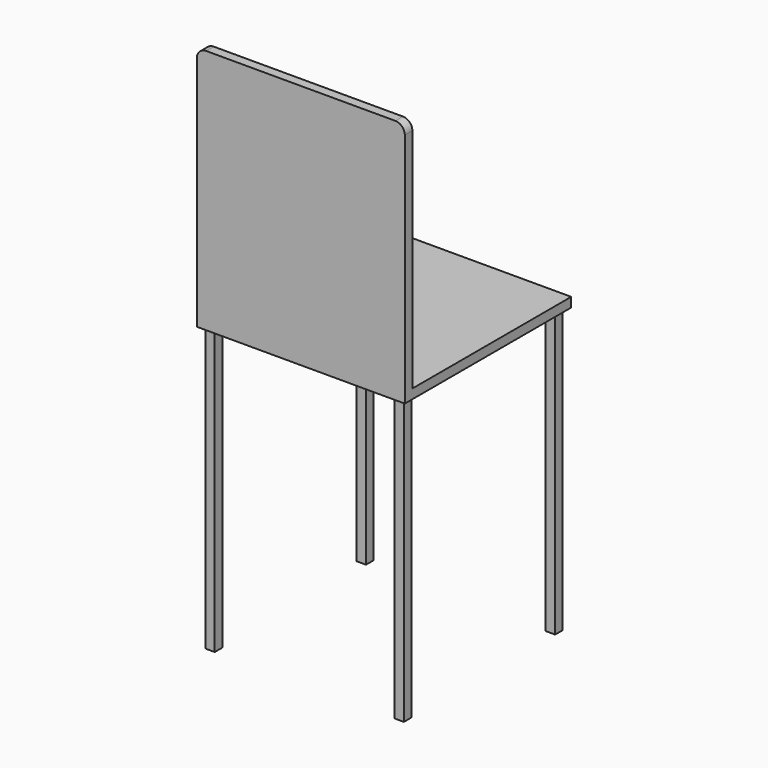
from build123d import *

# Parameters (mm, degrees)
F0_W     = 20
F0_H     = 20
F1_DEPTH = 600
F2_W     = 440
F2_H     = 440
F3_DEPTH = 20
F4_W     = 440
F4_H     = 20
F5_DEPTH = 500
F6_R     = 20


with BuildPart() as f1:
    # F0 (on Top) → F1 (new body)
    with BuildSketch(Plane.XY):
        with Locations((10, 10)):
            Rectangle(F0_W, F0_H)
        with Locations((10, 410)):
            Rectangle(F0_W, F0_H)
        with Locations((410, 10)):
            Rectangle(F0_W, F0_H)
        with Locations((410, 410)):
            Rectangle(F0_W, F0_H)
    extrude(amount=F1_DEPTH)

    # F2 (on face) → F3 (join)
    with BuildSketch(Plane.XY.offset(600)):
        with Locations((210, 210)):
            Rectangle(F2_W, F2_H)
    extrude(amount=F3_DEPTH)

    # F4 (on face) → F5 (join)
    with BuildSketch(Plane.XY.offset(620)):
        with Locations((210, 0)):
            Rectangle(F4_W, F4_H)
    extrude(amount=F5_DEPTH)

    # F6
    f6_edges = [f1.edges().sort_by_distance(p)[0] for p in [
        (430, 0, 1120),
        (-10, 0, 1120),
    ]]
    fillet(f6_edges, radius=F6_R)


solid = f1.part
